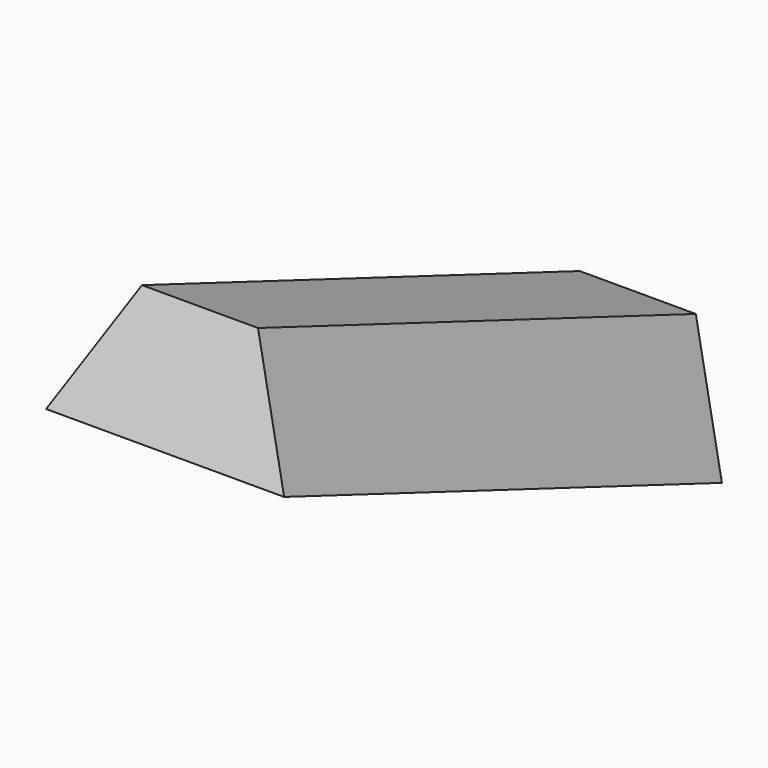
from build123d import *

# Parameters (mm, degrees)
PAD_DEPTH            = 100
BODY_PLACEMENT_ANGLE = 69


with BuildPart() as part:
    # Sketch → Pad (new body)
    with BuildSketch(Plane.XY):
        Polygon((-9.898993, 29.393942), (-20.404041, 8.989901), (20.202028, 8.989901), (9.898985, 29.393942), align=None)
    extrude(amount=PAD_DEPTH)


with BuildPart() as part_1:
    # Body placement: moved
    add(part.part.rotate(Axis((0, 0, 0), (1, 0, 0)), BODY_PLACEMENT_ANGLE))


solid = part_1.part
